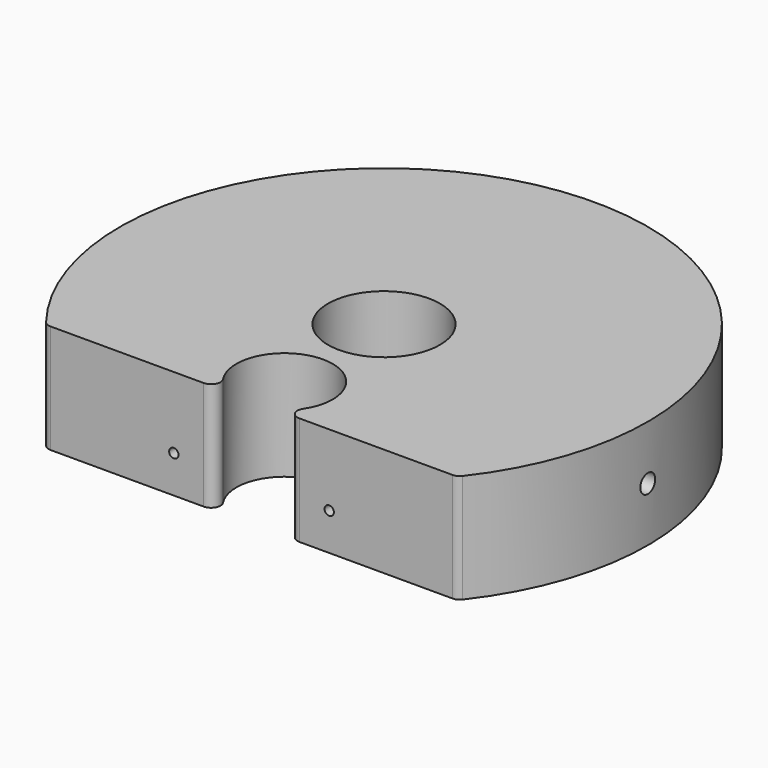
from build123d import *

# Parameters (mm, degrees)
SKETCH007_R     = 9
PAD005_DEPTH    = 17.5
FILLET_R        = 1.5
SKETCH022_R     = 1.5
POCKET010_DEPTH = 5
SKETCH023_R     = 0.75
POCKET011_DEPTH = 10
SKETCH026_R     = 1.5
POCKET014_DEPTH = 5


with BuildPart() as part:
    # Sketch007 → Pad005 (new body)
    with BuildSketch(Plane.XY):
        with BuildLine():
            Line((-33.051802, -26.637959), (-4, -26.637959))
            ThreePointArc((4, -26.637959), (0, -12.25), (-4, -26.637959))
            Line((33.051802, -26.637959), (4, -26.637959))
            ThreePointArc((33.051802, -26.637959), (0, 42.45), (-33.051802, -26.637959))
        make_face()
        Circle(SKETCH007_R, mode=Mode.SUBTRACT)
    extrude(amount=PAD005_DEPTH)

    # Fillet
    fillet_edges = [part.edges().sort_by_distance(p)[0] for p in [
        (-4, -26.637959, 8.75),
        (4, -26.637959, 8.75),
        (-33.051802, -26.637959, 8.75),
        (33.051802, -26.637959, 8.75),
    ]]
    fillet(fillet_edges, radius=FILLET_R)

    # Sketch022 (on DatumPlane) → Pocket010 (cut)
    with BuildSketch(Plane.YZ.offset(42.45)):
        with Locations((0, 8.75)):
            Circle(SKETCH022_R)
    extrude(amount=-POCKET010_DEPTH, mode=Mode.SUBTRACT)

    # Sketch023 (on DatumPlane) → Pocket011 (cut)
    with BuildSketch(Plane.XZ.offset(26.7)):
        with Locations((12.5, 6)):
            Circle(SKETCH023_R)
        with Locations((-12.5, 6)):
            Circle(SKETCH023_R)
    extrude(amount=-POCKET011_DEPTH, mode=Mode.SUBTRACT)

    # Sketch026 (on DatumPlane) → Pocket014 (cut)
    with BuildSketch(Plane.YZ.offset(-42.45)):
        with Locations((0, 8.75)):
            Circle(SKETCH026_R)
    extrude(amount=POCKET014_DEPTH, mode=Mode.SUBTRACT)


with BuildPart() as part_1:
    # Body005 placement: moved
    add(part.part.moved(Location((0, 0, 8))))


solid = part_1.part
